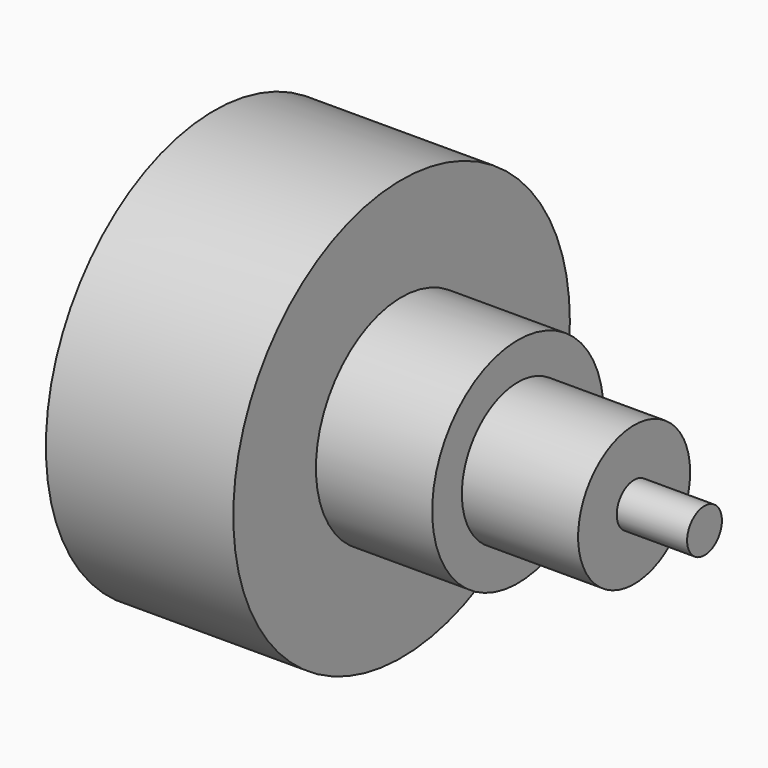
from build123d import *

# Parameters (mm, degrees)
F0_R     = 2.75
F1_DEPTH = 2.45
F2_R     = 1.4
F3_DEPTH = 1.52
F4_R     = 0.915
F5_DEPTH = 1.52
F6_R     = 0.284492
F7_DEPTH = 0.92


with BuildPart() as f1:
    # F0 (on Right) → F1 (new body)
    with BuildSketch(Plane.YZ):
        Circle(F0_R)
    extrude(amount=F1_DEPTH)

    # F2 (on face) → F3 (join)
    with BuildSketch(Plane.YZ.offset(2.45)):
        Circle(F2_R)
    extrude(amount=F3_DEPTH)

    # F4 (on face) → F5 (join)
    with BuildSketch(Plane.YZ.offset(3.97)):
        Circle(F4_R)
    extrude(amount=F5_DEPTH)

    # F6 (on face) → F7 (join)
    with BuildSketch(Plane.YZ.offset(5.49)):
        Circle(F6_R)
    extrude(amount=F7_DEPTH)


solid = f1.part
